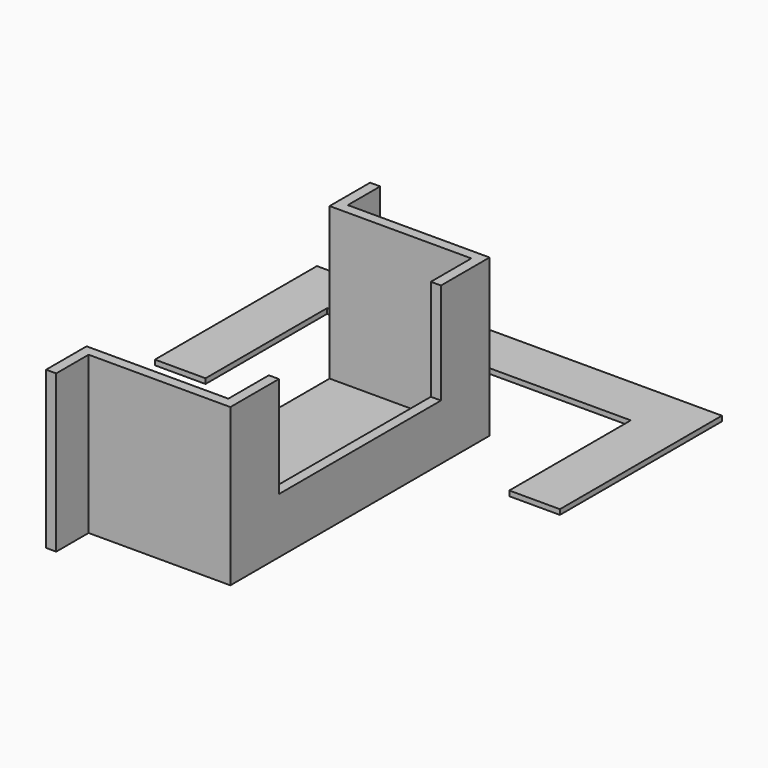
from build123d import *

# Parameters (mm, degrees)
F0_W     = 2
F0_H     = 40
F1_DEPTH = 11
F0_H_2   = 8
F2_DEPTH = 31
F3_DEPTH = 1
F5_DEPTH = 1


with BuildPart() as f1:
    # F0 (on Top) → F1 (new body)
    with BuildSketch(Plane.XY):
        with Locations((14, 0)):
            Rectangle(F0_W, F0_H)
    extrude(amount=F1_DEPTH)

    # F0 (on Top) → F2 (join)
    with BuildSketch(Plane.XY):
        with Locations((-14, 36)):
            Rectangle(F0_W, F0_H_2)
        Polygon((-13, 32), (-15, 32), (-15, 30), (13, 30), (13, 20), (15, 20), (15, 32), align=None)
        Polygon((13, -30), (-15, -30), (-15, -32), (-13, -32), (15, -32), (15, -20), (13, -20), align=None)
        with Locations((-14, -36)):
            Rectangle(F0_W, F0_H_2)
    extrude(amount=F2_DEPTH)

    # F0 (on Top) → F3 (join)
    with BuildSketch(Plane.XY):
        Polygon((13, 30), (-15, 30), (-15, -30), (13, -30), (13, -20), (13, 20), align=None)
    extrude(amount=F3_DEPTH)


with BuildPart() as f5:
    # F4 (on Top) → F5 (new body)
    with BuildSketch(Plane.XY):
        Polygon((-40, 58.118098), (-40, 18.118098), (-30, 18.118098), (-30, 48.118098), (30, 48.118098), (30, 18.118098), (40, 18.118098), (40, 58.118098), align=None)
    extrude(amount=F5_DEPTH)


solid = Compound([f1.part, f5.part])
